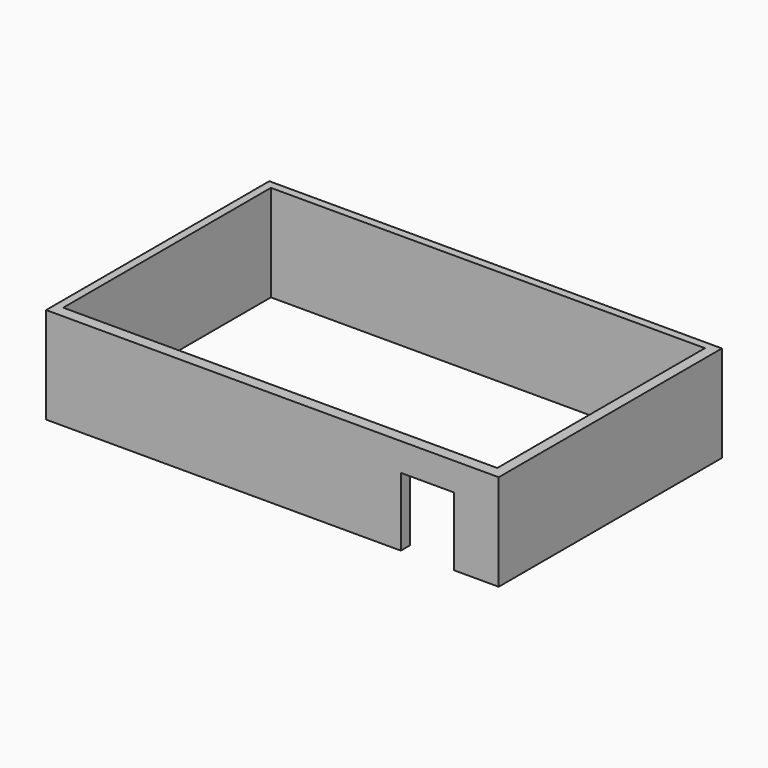
from build123d import *

# Parameters (mm, degrees)
F0_W     = 9385.715129
F0_H     = 5785.714729
F0_W_2   = 9000
F0_H_2   = 5381.632708
F1_DEPTH = 2000
F2_W     = 1104.88391
F2_H     = 1420.503378
F3_DEPTH = 25.4
F4_DEPTH = 1727.2


with BuildPart() as f1:
    # F0 (on Top) → F1 (new body)
    with BuildSketch(Plane.XY):
        with Locations((23.421733, -4.445001)):
            Rectangle(F0_W, F0_H)
        with Locations((-4.129804, 32.289783)):
            Rectangle(F0_W_2, F0_H_2, mode=Mode.SUBTRACT)
    extrude(amount=F1_DEPTH)

    # F2 (on face) → F3 (cut)
    with BuildSketch(Plane.XZ.offset(2897.302365)):
        with Locations((3239.230752, 710.251689)):
            Rectangle(F2_W, F2_H)
    extrude(amount=F3_DEPTH, mode=Mode.SUBTRACT)

    # F2 (on face) → F4 (cut)
    with BuildSketch(Plane.XZ.offset(2897.302365)):
        with Locations((3239.230752, 710.251689)):
            Rectangle(F2_W, F2_H)
    extrude(amount=-F4_DEPTH, mode=Mode.SUBTRACT)


solid = f1.part
